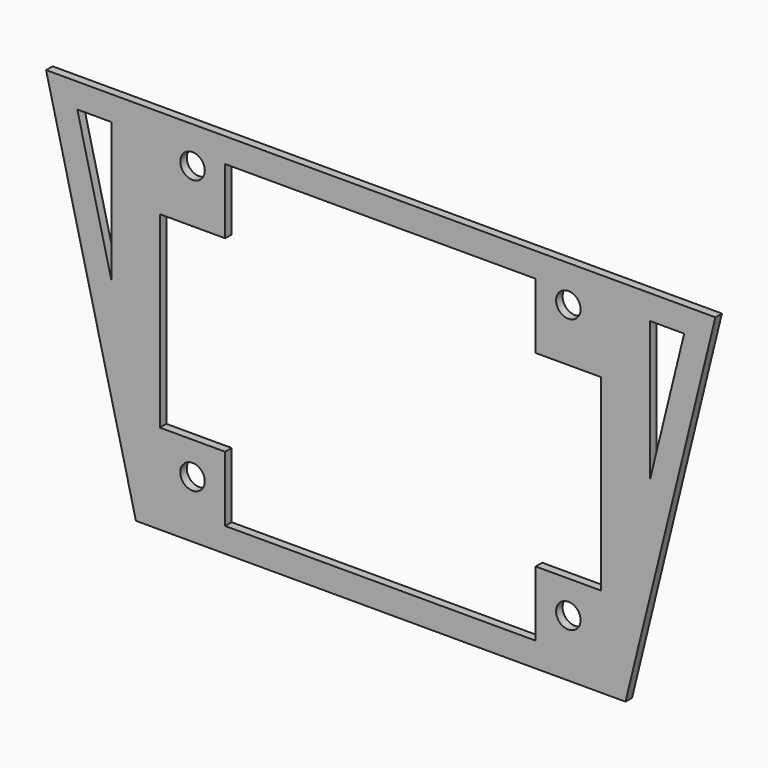
from build123d import *

# Parameters (mm, degrees)
F0_W     = 540
F0_H     = 390
F1_DEPTH = 10
F2_W     = 80
F2_H     = 80
F2_R     = 15
F3_DEPTH = 10


with BuildPart() as f1:
    # F0 (on Front) → F1 (new body)
    with BuildSketch(Plane.XZ):
        Polygon((-575.5810141563, 243.9473703504), (-465.5810141563, -206.0526296496), (133.660423523, -206.0526296496), (243.660423523, 243.9473703504), (133.660423523, 243.9473703504), (-465.5810141563, 243.9473703504), align=None)
        with Locations((-166.339576477, 18.9473703504)):
            Rectangle(F0_W, F0_H, mode=Mode.SUBTRACT)
        Polygon((-495.5810141563, 43.0153865893), (-537.3643879646, 213.9473703504), (-495.5810141563, 213.9473703504), align=None, mode=Mode.SUBTRACT)
        Polygon((163.660423523, 213.9473703504), (205.4437973313, 213.9473703504), (163.660423523, 43.0153865893), align=None, mode=Mode.SUBTRACT)
    extrude(amount=F1_DEPTH)

    # F2 (on face) → F3 (join)
    with BuildSketch(Plane.XZ.offset(10)):
        with Locations((-396.339576477, 173.9473703504)):
            Rectangle(F2_W, F2_H)
        with Locations((-396.339576477, 198.8157841563)):
            Circle(F2_R, mode=Mode.SUBTRACT)
        with Locations((63.660423523, 173.9473703504)):
            Rectangle(F2_W, F2_H)
        with Locations((63.660423523, 198.8157841563)):
            Circle(F2_R, mode=Mode.SUBTRACT)
        with Locations((63.660423523, -136.0526296496)):
            Rectangle(F2_W, F2_H)
        with Locations((63.660423523, -136.0526296496)):
            Circle(F2_R, mode=Mode.SUBTRACT)
        with Locations((-396.339576477, -136.0526296496)):
            Rectangle(F2_W, F2_H)
        with Locations((-396.339576477, -136.0526296496)):
            Circle(F2_R, mode=Mode.SUBTRACT)
    extrude(amount=-F3_DEPTH)


solid = f1.part
